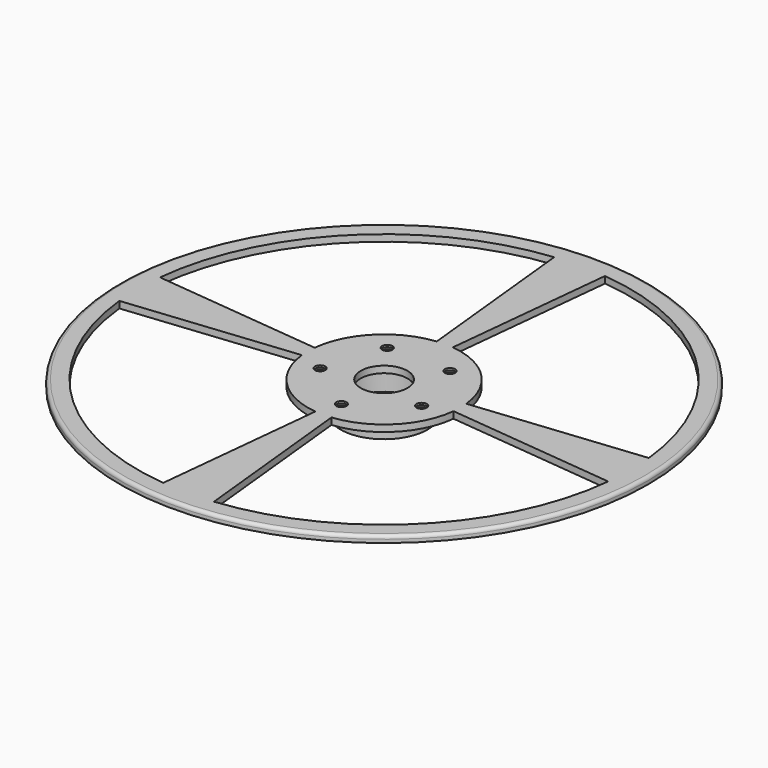
from build123d import *

# Parameters (mm, degrees)
SKETCH005_R           = 79.121
PAD_DEPTH             = 2
SKETCH010_R           = 13.0462
PAD001_DEPTH          = 7
SKETCH007_R           = 11.05
POCKET005_DEPTH       = 7
SKETCH006_R           = 7
POCKET006_DEPTH       = 5.0038
SKETCH008_R           = 1.55
POCKET007_DEPTH       = 5.0038
POLARPATTERN002_COUNT = 5
CHAMFER001_SIZE       = 1.4
POCKET008_DEPTH       = 5.0038
POLARPATTERN003_COUNT = 4
FILLET_R              = 0.999998


with BuildPart() as part:
    # Sketch005 → Pad (new body)
    with BuildSketch(Plane.XY):
        Circle(SKETCH005_R)
    extrude(amount=PAD_DEPTH)

    # Sketch010 (on Face2 of Pad) → Pad001 (join)
    with BuildSketch(Plane(origin=(0, 0, 0), x_dir=(1, 0, 0), z_dir=(0, 0, -1))):
        Circle(SKETCH010_R)
    extrude(amount=PAD001_DEPTH)

    # Sketch007 (on Face5 of Pad001) → Pocket005 (cut)
    with BuildSketch(Plane(origin=(0, 0, -7), x_dir=(1, 0, 0), z_dir=(0, 0, -1))):
        Circle(SKETCH007_R)
    extrude(amount=-POCKET005_DEPTH, mode=Mode.SUBTRACT)

    with BuildSketch(Plane(origin=(0, 0, 0), x_dir=(1, 0, 0), z_dir=(0, 0, -1))):
        Circle(SKETCH006_R)
    extrude(amount=-POCKET006_DEPTH, mode=Mode.SUBTRACT)

    # Sketch008 (on Face4 of Pocket002) → Pocket007 (cut)
    with BuildSketch(Plane(origin=(0, 0, 0), x_dir=(1, 0, 0), z_dir=(0, 0, -1))):
        with Locations((0, 16)):
            Circle(SKETCH008_R)
    pocket007 = extrude(amount=-POCKET007_DEPTH, mode=Mode.SUBTRACT)

    # PolarPattern002: Pocket007 ×5 about axis
    polarpattern002_axis = Axis((0, 0, 0), (0, 0, -1))
    for i in range(1, POLARPATTERN002_COUNT):
        add(pocket007.rotate(polarpattern002_axis, i * 360 / POLARPATTERN002_COUNT), mode=Mode.SUBTRACT)

    # Chamfer001
    chamfer001_edges = [part.edges().sort_by_distance(p)[0] for p in [
        (-1.55, -16, 0),
        (14.737928, -6.41841, 0),
        (-15.695881, -3.470134, 0),
        (-8.150588, 13.855339, 0),
        (10.65854, 12.033205, 0),
    ]]
    chamfer(chamfer001_edges, length=CHAMFER001_SIZE)

    # Sketch009 (on Face1 of Chamfer) → Pocket008 (cut)
    with BuildSketch(Plane(origin=(0, 0, 0), x_dir=(1, 0, 0), z_dir=(0, 0, -1))):
        with BuildLine():
            ThreePointArc((-2.406307, 22.733), (-16.164461, 16.164461), (-22.733, 2.406307))
            Line((-22.733, 2.406307), (-73.264802, 7.62))
            ThreePointArc((-7.62, 73.264802), (-52.085486, 52.085486), (-73.264802, 7.62))
            Line((-2.406307, 22.733), (-7.62, 73.264802))
        make_face()
    pocket008 = extrude(amount=-POCKET008_DEPTH, mode=Mode.SUBTRACT)

    # PolarPattern003: Pocket008 ×4 about axis
    polarpattern003_axis = Axis((0, 0, 0), (0, 0, -1))
    for i in range(1, POLARPATTERN003_COUNT):
        add(pocket008.rotate(polarpattern003_axis, i * 360 / POLARPATTERN003_COUNT), mode=Mode.SUBTRACT)

    # Fillet
    fillet_edges = [part.edges().sort_by_distance(p)[0] for p in [
        (-79.121, 0, 2),
    ]]
    fillet(fillet_edges, radius=FILLET_R)


solid = part.part
